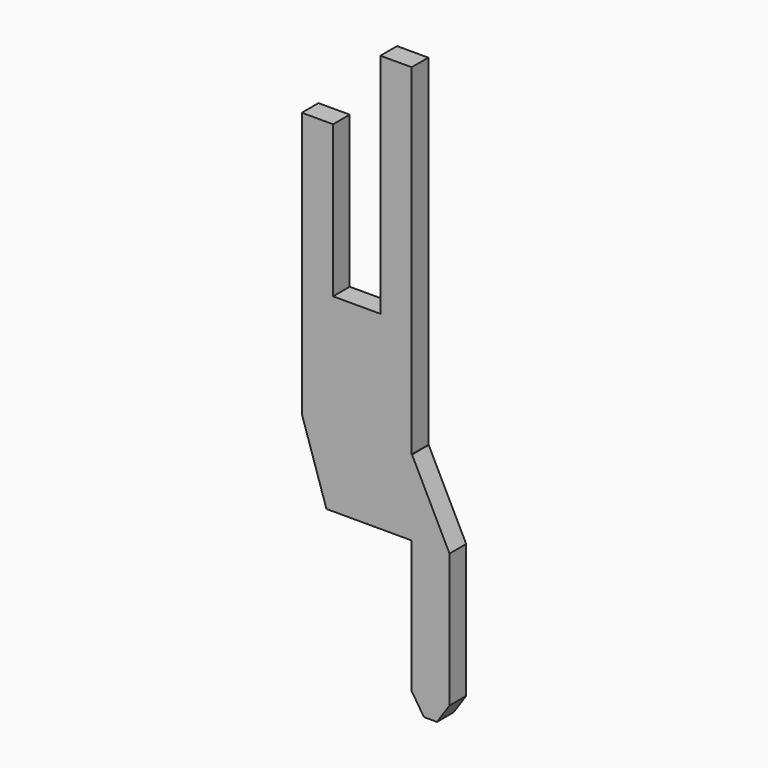
from build123d import *

# Parameters (mm, degrees)
BOX103_W                = 2.9
BOX103_H                = 0.55
BOX103_DEPTH            = 15
BOX104_W                = 1.25
BOX104_H                = 0.55
BOX104_DEPTH            = 6
BOX105_W                = 1.1
BOX105_H                = 0.6
BOX105_DEPTH            = 2
BOX107_W                = 1
BOX107_H                = 0.55
BOX107_DEPTH            = 6
BOX106_W                = 3
BOX106_H                = 0.55
BOX106_DEPTH            = 4
CHAMFER050_SIZE2        = 0.65
CHAMFER050_SIZE         = 2
CHAMFER051_ANGLE        = 33
CHAMFER051_SIZE         = 0.5
CHAMFER053_ANGLE        = 56
CHAMFER053_SIZE         = 0.33
CHAMFER052_ANGLE        = 26.565
CHAMFER052_SIZE         = 1.98
BODY035_PLACEMENT_ANGLE = 180


with BuildPart() as part:
    # Box103 → Box103 (join)
    with BuildSketch(Plane(origin=(-4.95, -0.275, 0), x_dir=(1, 0, 0), z_dir=(0, 0, 1))):
        with Locations((1.45, 0.275)):
            Rectangle(BOX103_W, BOX103_H)
    extrude(amount=BOX103_DEPTH)

    # Box104 → Box104 (cut)
    with BuildSketch(Plane(origin=(-4.125, -0.275, 9), x_dir=(1, 0, 0), z_dir=(0, 0, 1))):
        with Locations((0.625, 0.275)):
            Rectangle(BOX104_W, BOX104_H)
    extrude(amount=BOX104_DEPTH, mode=Mode.SUBTRACT)

    # Box105 → Box105 (cut)
    with BuildSketch(Plane(origin=(-3, -0.3, 13), x_dir=(1, 0, 0), z_dir=(0, 0, 1))):
        with Locations((0.55, 0.3)):
            Rectangle(BOX105_W, BOX105_H)
    extrude(amount=BOX105_DEPTH, mode=Mode.SUBTRACT)

    # Box107 → Box107 (join)
    with BuildSketch(Plane(origin=(-5.95, -0.275, 0), x_dir=(1, 0, 0), z_dir=(0, 0, 1))):
        with Locations((0.5, 0.275)):
            Rectangle(BOX107_W, BOX107_H)
    extrude(amount=BOX107_DEPTH)

    # Box106 → Box106 (cut)
    with BuildSketch(Plane(origin=(-4.95, 0.275, 4), x_dir=(1, 0, 0), z_dir=(0, 0, -1))):
        with Locations((1.5, 0.275)):
            Rectangle(BOX106_W, BOX106_H)
    extrude(amount=BOX106_DEPTH, mode=Mode.SUBTRACT)

    # Chamfer050
    chamfer050_edges = [part.edges().sort_by_distance(p)[0] for p in [
        (-2.05, 0, 4),
    ]]
    chamfer050_side = part.faces().sort_by_distance((-2.05, 0, 8.5))[0]
    chamfer(chamfer050_edges, length=CHAMFER050_SIZE, length2=CHAMFER050_SIZE2, reference=chamfer050_side)

    # Chamfer051
    chamfer051_edges = [part.edges().sort_by_distance(p)[0] for p in [
        (-4.95, 0, 0),
    ]]
    chamfer051_side = part.faces().sort_by_distance((-4.95, 0, 2))[0]
    chamfer(chamfer051_edges, length=CHAMFER051_SIZE, angle=CHAMFER051_ANGLE, reference=chamfer051_side)

    # Chamfer053
    chamfer053_edges = [part.edges().sort_by_distance(p)[0] for p in [
        (-5.95, 0, 0),
    ]]
    chamfer053_side = part.faces().sort_by_distance((-5.612352, 0, 0))[0]
    chamfer(chamfer053_edges, length=CHAMFER053_SIZE, angle=CHAMFER053_ANGLE, reference=chamfer053_side)

    # Chamfer052
    chamfer052_edges = [part.edges().sort_by_distance(p)[0] for p in [
        (-5.95, 0, 6),
    ]]
    chamfer052_side = part.faces().sort_by_distance((-5.95, 0, 3.244623))[0]
    chamfer(chamfer052_edges, length=CHAMFER052_SIZE, angle=CHAMFER052_ANGLE, reference=chamfer052_side)


with BuildPart() as part_1:
    # Body035 placement: moved
    add(part.part.moved(Location((0, 0, -4))).rotate(Axis((0, 0, -4), (0, 0, 1)), BODY035_PLACEMENT_ANGLE))


solid = part_1.part
